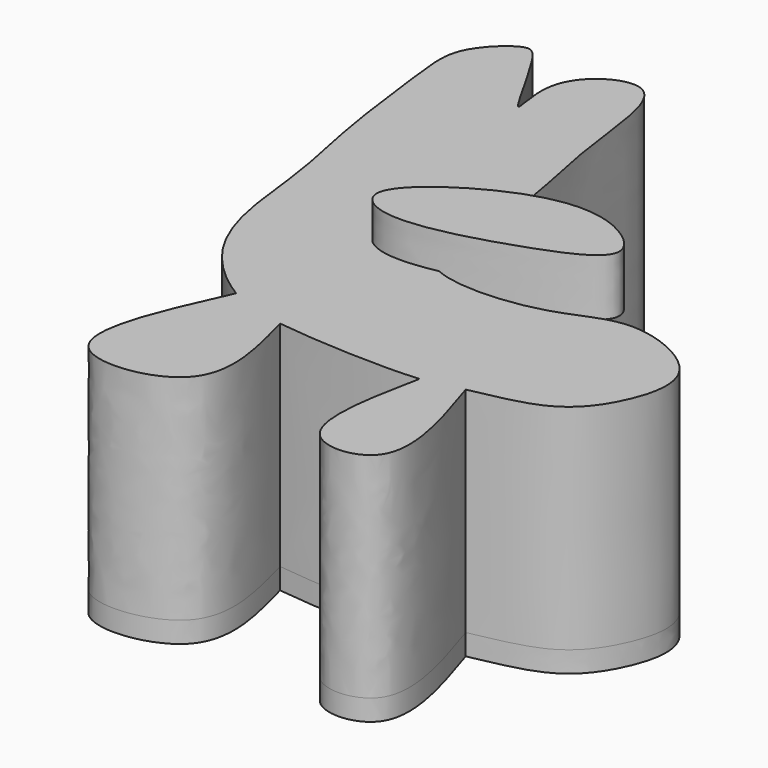
from build123d import *

# Parameters (mm, degrees)
F1_DEPTH = 37.7
F4_DEPTH = 10


with BuildPart() as f1:
    # F0 (on Top) → F1 (new body)
    with BuildSketch(Plane.XY):
        with BuildLine():
            add(Edge.make_bspline(
                [(6.9512072951, -47.7710627019), (10.1532279291, -47.0223427405), (19.8080848298, -45.6948039502), (26.4640435106, -37.4703784466), (30.0702642701, -24.0062674733), (18.0137027171, -18.823691196), (13.1629221141, -18.7830477953)],
                knots=[0.8361950207, 0.8361950207, 0.8361950207, 0.8361950207, 0.8771920765, 0.9150545132, 0.9543528228, 1, 1, 1, 1], degree=3))
            add(Edge.make_bspline(
                [(13.1629221141, -18.7830477953), (8.557421125, -18.7444595273), (1.6279417033, -24.1221403252), (-24.9325734713, -24.9561729081), (-19.5285263731, -5.6675008368), (-23.7487456779, 11.8950949018), (-25.5396729081, 23.1378936371), (-27.6043465809, 42.0080856729), (-43.257910732, 33.071295644), (-37.3101192084, 15.964969579), (-47.4535596795, 36.2662240883), (-50.7110488224, 37.7474816061), (-57.9735745192, 31.058158087), (-56.9385011888, 21.8355217871), (-54.5712513522, 2.3868324554), (-51.2450931586, -10.6669799074), (-50.2677099958, -25.742548818), (-45.5137611708, -37.4911338594), (-38.7144628358, -43.2617308151), (-35.6434211135, -45.1088957489)],
                knots=[0, 0, 0, 0, 0.0433390287, 0.095705517, 0.1407856412, 0.1907113151, 0.2327241044, 0.2762770551, 0.3160859676, 0.3503632585, 0.3954836415, 0.4167667528, 0.4497612634, 0.4852376468, 0.5367991965, 0.5808309844, 0.6256125211, 0.6671296284, 0.7075674518, 0.7075674518, 0.7075674518, 0.7075674518], degree=3))
            add(Edge.make_bspline(
                [(-35.6434211135, -45.1088957489), (-32.7154509819, -46.8700062265), (-30.0454871675, -47.721997002), (-25.2905618399, -48.3626537025)],
                knots=[0.7075674518, 0.7075674518, 0.7075674518, 0.7075674518, 0.7461213856, 0.7461213856, 0.7461213856, 0.7461213856], degree=3))
            add(Edge.make_bspline(
                [(-25.2905618399, -48.3626537025), (-18.0295170442, -49.3409733774), (-5.9065403354, -49.8264820928), (0, -49.2500402033)],
                knots=[0.7461213856, 0.7461213856, 0.7461213856, 0.7461213856, 0.8049954626, 0.8049954626, 0.8049954626, 0.8049954626], degree=3))
            add(Edge.make_bspline(
                [(0, -49.2500402033), (3.1300948967, -48.9445622562), (4.5144072212, -48.3408531767), (6.9512072951, -47.7710627019)],
                knots=[0.8049954626, 0.8049954626, 0.8049954626, 0.8049954626, 0.8361950207, 0.8361950207, 0.8361950207, 0.8361950207], degree=3))
        make_face()
        with BuildLine():
            add(Edge.make_bspline(
                [(-35.6434211135, -45.1088957489), (-32.7154509819, -46.8700062265), (-30.0454871675, -47.721997002), (-25.2905618399, -48.3626537025)],
                knots=[0.7075674518, 0.7075674518, 0.7075674518, 0.7075674518, 0.7461213856, 0.7461213856, 0.7461213856, 0.7461213856], degree=3))
            add(Edge.make_bspline(
                [(-35.6434211135, -45.1088957489), (-40.5425545812, -55.8336204386), (-49.2895978542, -74.9818293145), (-19.0919519819, -71.5063939323), (-23.143760217, -56.3781636673), (-25.2905618399, -48.3626537025)],
                knots=[0, 0, 0, 0, 0.3744554937, 0.6685628037, 1, 1, 1, 1], degree=3))
        make_face()
        with BuildLine():
            add(Edge.make_bspline(
                [(0, -49.2500402033), (-1.8618898885, -58.4841145064), (-4.9588457408, -73.8435192873), (15.001889071, -72.6735338184), (9.9913949009, -57.1750096161), (6.9512072951, -47.7710627019)],
                knots=[0, 0, 0, 0, 0.3721795685, 0.6190611485, 1, 1, 1, 1], degree=3))
            add(Edge.make_bspline(
                [(0, -49.2500402033), (3.1300948967, -48.9445622562), (4.5144072212, -48.3408531767), (6.9512072951, -47.7710627019)],
                knots=[0.8049954626, 0.8049954626, 0.8049954626, 0.8049954626, 0.8361950207, 0.8361950207, 0.8361950207, 0.8361950207], degree=3))
        make_face()
    extrude(amount=F1_DEPTH)

    # F3 (on Top) → F4 (join)
    with BuildSketch(Plane.XY):
        with BuildLine():
            add(Edge.make_bspline(
                [(-31.5505601466, -18.9341735095), (-31.2233249811, -15.8014522359), (-19.7287129996, -6.9726106557), (-3.1420927252, -2.9593465366), (9.5805811179, -12.8423926294), (-6.3754335638, -19.7258150226), (-26.504743968, -25.3223865745), (-31.7534826804, -20.8768123386), (-31.5505601466, -18.9341735095)],
                knots=[0, 0, 0, 0, 0.1779388425, 0.370800893, 0.5136712772, 0.676875048, 0.8896579445, 1, 1, 1, 1], degree=3))
        make_face()
    extrude(amount=-F4_DEPTH)

    # F5: F1 across plane


with BuildPart() as f1_1:
    add(f1.part)
    add(f1.part.mirror(Plane.XY.offset(17)))


solid = f1_1.part
